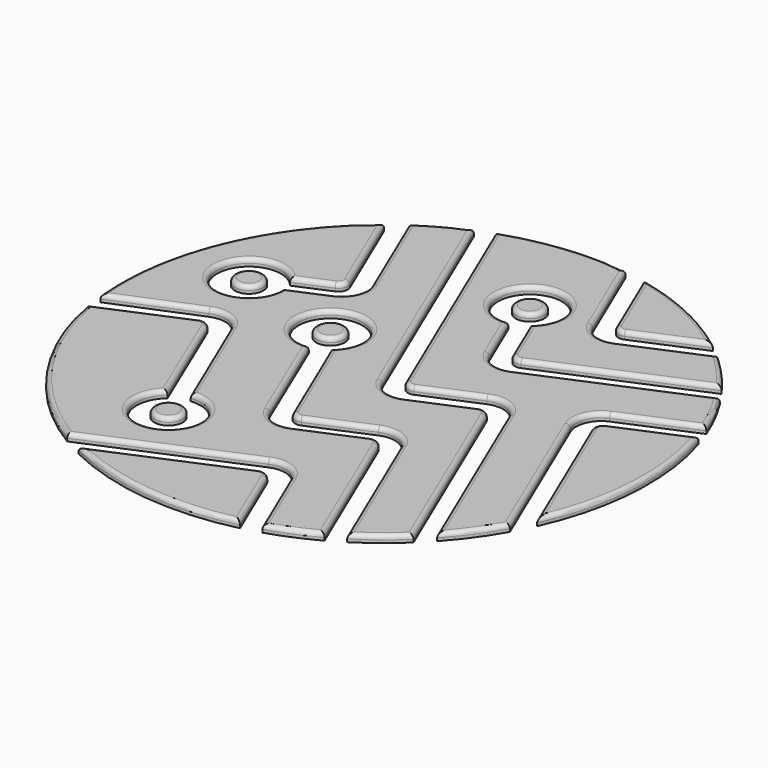
from build123d import *

# Parameters (mm, degrees)
F0_R     = 2
F1_DEPTH = 1
F2_R     = 0.6


with BuildPart() as f1:
    # F0 (on Top) → F1 (new body)
    with BuildSketch(Plane.XY):
        with BuildLine():
            Line((-24.087367, 1.211523), (-35.805672, -3.775395))
            ThreePointArc((-35.805672, -3.775395), (-29.824331, -18.378247), (-18.3227, -29.182516))
            Line((-18.3227, -29.182516), (2.840593, -20.176128))
            ThreePointArc((2.840593, -20.176128), (5.519252, -20.150275), (7.431631, -22.026092))
            Line((7.431631, -22.026092), (11.993262, -32.745055))
            ThreePointArc((11.993262, -32.745055), (15.327039, -31.512686), (18.527835, -29.967466))
            Line((18.527835, -29.967466), (9.912414, -9.72287))
            ThreePointArc((9.912414, -9.72287), (9.202101, -9.026138), (8.207171, -9.035741))
            Line((8.207171, -9.035741), (0.008973, -12.524618))
            ThreePointArc((0.008973, -12.524618), (-2.674385, -12.548574), (-4.58602, -10.665323))
            Line((-4.58602, -10.665323), (-10.688052, 3.789317))
            ThreePointArc((-10.688052, 3.789317), (-12.973208, 12.399461), (-8.3529, 4.783079))
            Line((-8.3529, 4.783079), (-2.292254, -9.458281))
            ThreePointArc((-2.292254, -9.458281), (-1.581942, -10.155013), (-0.587011, -10.145411))
            Line((-0.587011, -10.145411), (7.531273, -6.690541))
            ThreePointArc((7.531273, -6.690541), (10.209932, -6.664688), (12.122311, -8.540505))
            Line((12.122311, -8.540505), (20.697959, -28.691641))
            ThreePointArc((20.697959, -28.691641), (23.681272, -26.586493), (26.443597, -24.198741))
            Line((26.443597, -24.198741), (14.775001, 3.220234))
            ThreePointArc((14.775001, 3.220234), (14.064689, 3.916966), (13.069758, 3.907363))
            Line((13.069758, 3.907363), (5.345444, 0.620154))
            ThreePointArc((5.345444, 0.620154), (2.666785, 0.594301), (0.754406, 2.470118))
            Line((0.754406, 2.470118), (-13.870402, 36.835625))
            ThreePointArc((-13.870402, 36.835625), (-17.133078, 35.24185), (-20.224635, 33.337263))
            Line((-20.224635, 33.337263), (-14.350904, 19.535116))
            ThreePointArc((-14.350904, 19.535116), (-14.32505, 16.856456), (-16.200867, 14.944077))
            Line((-16.200867, 14.944077), (-21.4349, 12.716649))
            ThreePointArc((-21.4349, 12.716649), (-30.098084, 10.648023), (-22.38003, 15.093427))
            Line((-22.38003, 15.093427), (-17.614503, 17.121475))
            ThreePointArc((-17.614503, 17.121475), (-16.917771, 17.831787), (-16.927374, 18.826718))
            Line((-16.927374, 18.826718), (-22.412662, 31.716098))
            ThreePointArc((-22.412662, 31.716098), (-33.464771, 17.096925), (-36.185919, -1.026669))
            Line((-36.185919, -1.026669), (-24.675582, 3.737888))
            ThreePointArc((-24.675582, 3.737888), (-22.012799, 3.743842), (-20.116452, 1.874531))
            Line((-20.116452, 1.874531), (-13.683266, -13.242228))
            ThreePointArc((-13.683266, -13.242228), (-11.461526, -21.859338), (-16.130823, -14.283826))
            Line((-16.130823, -14.283826), (-22.380655, 0.520927))
            ThreePointArc((-22.380655, 0.520927), (-23.090691, 1.220421), (-24.087367, 1.211523))
        make_face()
        with BuildLine():
            ThreePointArc((5.293442, 39.575631), (-3.235613, 39.630878), (-11.552619, 37.740047))
            Line((-11.552619, 37.740047), (2.806908, 3.997899))
            ThreePointArc((2.806908, 3.997899), (3.51722, 3.301167), (4.512151, 3.31077))
            Line((4.512151, 3.31077), (12.167819, 6.568766))
            ThreePointArc((12.167819, 6.568766), (14.846478, 6.594619), (16.758858, 4.718802))
            Line((16.758858, 4.718802), (28.269664, -22.329397))
            ThreePointArc((28.269664, -22.329397), (30.894985, -19.099362), (33.142619, -15.595996))
            Line((33.142619, -15.595996), (23.449949, 7.179928))
            ThreePointArc((23.449949, 7.179928), (23.424096, 9.858587), (25.299913, 11.770967))
            Line((25.299913, 11.770967), (35.450443, 16.090692))
            ThreePointArc((35.450443, 16.090692), (34.013646, 19.336322), (32.273756, 22.430072))
            Line((32.273756, 22.430072), (10.43575, 13.136549))
            ThreePointArc((10.43575, 13.136549), (7.757091, 13.110696), (5.844712, 14.986513))
            Line((5.844712, 14.986513), (2.878793, 21.955856))
            ThreePointArc((2.878793, 21.955856), (0.58941, 30.566736), (5.192512, 22.937844))
            Line((5.192512, 22.937844), (8.014912, 16.305742))
            ThreePointArc((8.014912, 16.305742), (8.725224, 15.60901), (9.720155, 15.618613))
            Line((9.720155, 15.618613), (30.808904, 24.593278))
            ThreePointArc((30.808904, 24.593278), (28.489247, 27.461512), (25.896656, 30.08564))
            Line((25.896656, 30.08564), (15.092522, 25.487762))
            ThreePointArc((15.092522, 25.487762), (12.413863, 25.461909), (10.501484, 27.337726))
            Line((10.501484, 27.337726), (5.293442, 39.575631))
        make_face()
        with BuildLine():
            Line((25.890456, 7.865005), (34.629585, -12.67028))
            ThreePointArc((34.629585, -12.67028), (37.878825, 0.363148), (36.282379, 13.700283))
            Line((36.282379, 13.700283), (26.577585, 9.570248))
            ThreePointArc((26.577585, 9.570248), (25.880853, 8.859936), (25.890456, 7.865005))
        make_face()
        with BuildLine():
            ThreePointArc((23.660394, 31.978269), (16.373329, 36.42426), (8.264003, 39.090151))
            Line((8.264003, 39.090151), (12.678269, 28.717468))
            ThreePointArc((12.678269, 28.717468), (13.388581, 28.020736), (14.383512, 28.030339))
            Line((14.383512, 28.030339), (23.660394, 31.978269))
        make_face()
        with BuildLine():
            Line((3.434033, -22.691468), (-15.460933, -30.732532))
            ThreePointArc((-15.460933, -30.732532), (-3.252773, -34.253543), (9.427957, -33.456178))
            Line((9.427957, -33.456178), (5.139276, -23.378597))
            ThreePointArc((5.139276, -23.378597), (4.428964, -22.681865), (3.434033, -22.691468))
        make_face()
        with Locations((-25.916562, 12.310813)):
            Circle(F0_R)
        with Locations((2.347508, 26.424383)):
            Circle(F0_R)
        with Locations((-11.211089, 8.258817)):
            Circle(F0_R)
        with Locations((-13.223646, -17.718694)):
            Circle(F0_R)
    extrude(amount=F1_DEPTH)

    # F2
    f2_edges = [f1.edges().sort_by_distance(p)[0] for p in [
        (-16.899859, -5.683848, 1),
        (-11.461526, -21.859338, 1),
        (-19.255739, -6.881449, 1),
        (-23.090691, 1.220421, 1),
        (-29.94652, -1.281936, 1),
        (-29.824331, -18.378247, 1),
        (-7.741054, -24.679322, 1),
        (5.519252, -20.150275, 1),
        (9.712447, -27.385573, 1),
        (15.327039, -31.512686, 1),
        (14.220124, -19.845168, 1),
        (9.202101, -9.026138, 1),
        (4.108072, -10.780179, 1),
        (-2.674385, -12.548574, 1),
        (-7.637036, -3.438003, 1),
        (-12.973208, 12.399461, 1),
        (-5.322577, -2.337601, 1),
        (-1.581942, -10.155013, 1),
        (3.472131, -8.417976, 1),
        (10.209932, -6.664688, 1),
        (16.410135, -18.616073, 1),
        (23.681272, -26.586493, 1),
        (20.609299, -10.489253, 1),
        (14.064689, 3.916966, 1),
        (9.207601, 2.263759, 1),
        (2.666785, 0.594301, 1),
        (-6.557998, 19.652872, 1),
        (-17.133078, 35.24185, 1),
        (-17.287769, 26.436189, 1),
        (-14.32505, 16.856456, 1),
        (-18.817884, 13.830363, 1),
        (-30.098084, 10.648023, 1),
        (-19.997266, 16.107451, 1),
        (-16.917771, 17.831787, 1),
        (-19.670018, 25.271408, 1),
        (-33.464771, 17.096925, 1),
        (-30.430751, 1.355609, 1),
        (-22.012799, 3.743842, 1),
        (28.489247, 27.461512, 1),
        (20.494589, 27.786701, 1),
        (12.413863, 25.461909, 1),
        (7.897463, 33.456678, 1),
        (-3.235613, 39.630878, 1),
        (-4.372856, 20.868973, 1),
        (3.51722, 3.301167, 1),
        (8.339985, 4.939768, 1),
        (14.846478, 6.594619, 1),
        (22.514261, -8.805298, 1),
        (30.894985, -19.099362, 1),
        (28.296284, -4.208034, 1),
        (23.424096, 9.858587, 1),
        (30.375178, 13.930829, 1),
        (34.013646, 19.336322, 1),
        (21.354753, 17.783311, 1),
        (7.757091, 13.110696, 1),
        (4.361753, 18.471184, 1),
        (0.58941, 30.566736, 1),
        (6.603712, 19.621793, 1),
        (8.725224, 15.60901, 1),
        (20.264529, 20.105945, 1),
        (16.373329, 36.42426, 1),
        (10.471136, 33.90381, 1),
        (13.388581, 28.020736, 1),
        (19.021953, 30.004304, 1),
        (25.880853, 8.859936, 1),
        (30.26002, -2.402638, 1),
        (37.878825, 0.363148, 1),
        (31.429982, 11.635265, 1),
        (-3.252773, -34.253543, 1),
        (7.283616, -28.417388, 1),
        (4.428964, -22.681865, 1),
        (-6.01345, -26.712, 1),
        (0.347508, 26.424383, 1),
        (-13.211089, 8.258817, 1),
        (-15.223646, -17.718694, 1),
        (-27.916562, 12.310813, 1),
    ]]
    fillet(f2_edges, radius=F2_R)


solid = f1.part
